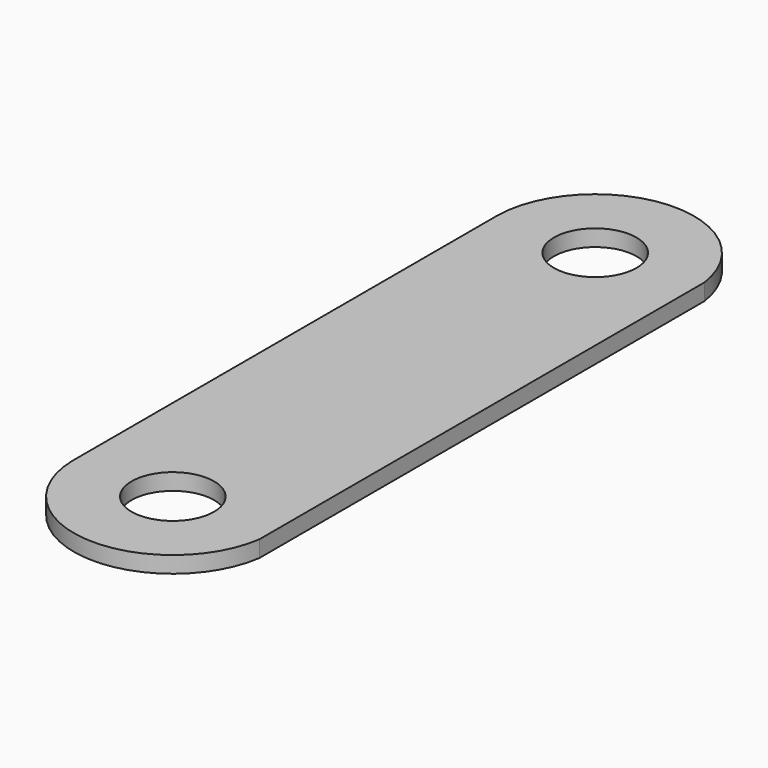
from build123d import *

# Parameters (mm, degrees)
F1_DEPTH = 1.27
F2_R     = 3.175
F3_DEPTH = 25.4


with BuildPart() as f1:
    # F0 (on Top) → F1 (new body)
    with BuildSketch(Plane.XY):
        with BuildLine():
            Line((7.5408306384, -13.6645900438), (7.5408306384, 24.784270269))
            Line((7.5408306384, 24.784270269), (7.5408306384, 26.9754099562))
            ThreePointArc((7.5408306384, 26.9754099562), (-0.457823012, 33.4860742722), (-7.6177982901, 26.063004552))
            Line((-7.6177982901, 26.063004552), (-7.6177982901, 25.6966756733))
            Line((-7.6177982901, 25.6966756733), (-7.6177982901, -14.576995448))
            Line((-7.6177982901, -14.576995448), (-7.6177982901, -14.9433243267))
            ThreePointArc((-7.6177982901, -14.9433243267), (-0.457823012, -22.3663940469), (7.5408306384, -15.855729731))
            Line((7.5408306384, -15.855729731), (7.5408306384, -13.6645900438))
        make_face()
    extrude(amount=F1_DEPTH)

    # F2 (on face) → F3 (cut)
    with BuildSketch(Plane.XY.offset(1.27)):
        with Locations((0, 25.8798401126)):
            Circle(F2_R)
        with Locations((0, -14.7601598874)):
            Circle(F2_R)
    extrude(amount=-F3_DEPTH, mode=Mode.SUBTRACT)


solid = f1.part
